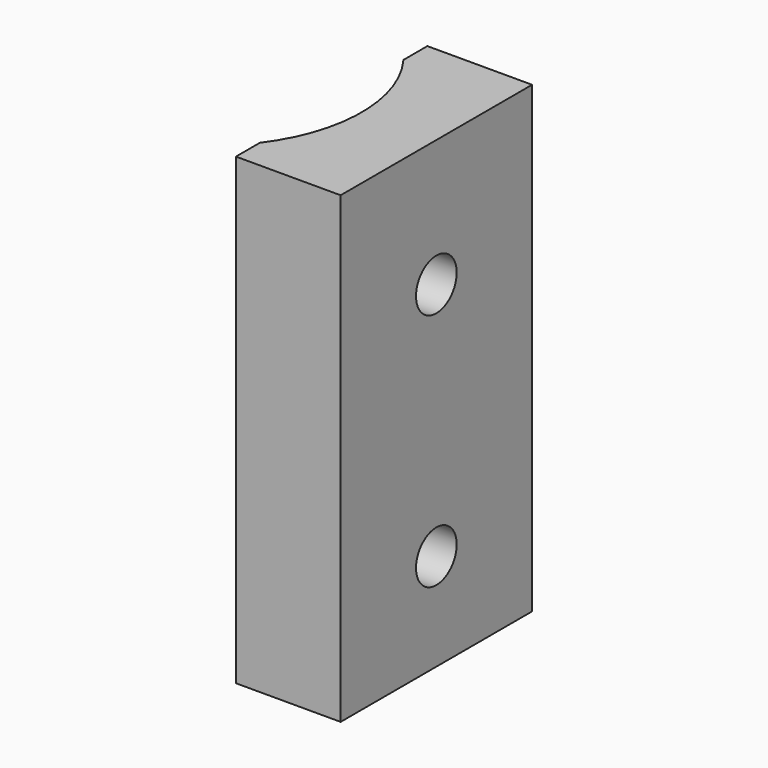
from build123d import *

# Parameters (mm, degrees)
F1_DEPTH = 31
F2_R     = 1.7
F3_DEPTH = 3


with BuildPart() as f1:
    # F0 (on Top) → F1 (new body)
    with BuildSketch(Plane.XY):
        with BuildLine():
            Line((-2.702666, -6), (-2.702666, -8))
            Line((-2.702666, -8), (4.297334, -8))
            Line((4.297334, -8), (4.297334, 8))
            Line((4.297334, 8), (-2.702666, 8))
            Line((-2.702666, 8), (-2.702666, 6))
            ThreePointArc((-2.702666, 6), (-0.702666, 0), (-2.702666, -6))
        make_face()
    extrude(amount=F1_DEPTH)

    # F2 (on face) → F3 (cut)
    with BuildSketch(Plane.YZ.offset(4.297334)):
        with Locations((0, 22.5)):
            Circle(F2_R)
        with Locations((0, 6.5)):
            Circle(F2_R)
    extrude(amount=-F3_DEPTH, mode=Mode.SUBTRACT)


solid = f1.part
